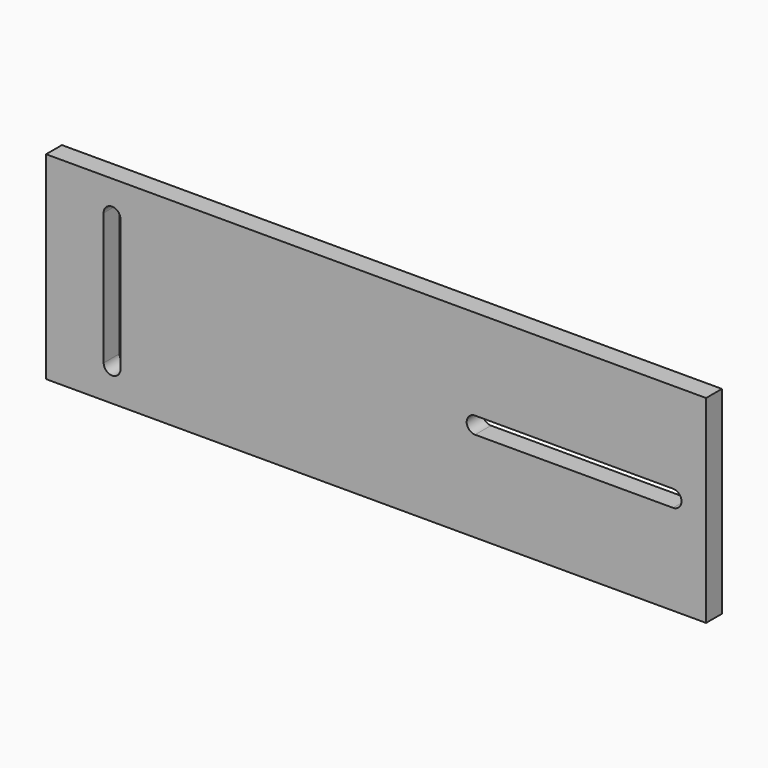
from build123d import *

# Parameters (mm, degrees)
F0_W     = 200
F0_H     = 60
F1_DEPTH = 6
F3_DEPTH = 6


with BuildPart() as f1:
    # F0 (on Front) → F1 (new body)
    with BuildSketch(Plane.XZ):
        with Locations((100, 30)):
            Rectangle(F0_W, F0_H)
    extrude(amount=F1_DEPTH)

    # F2 (on face) → F3 (cut, through all)
    with BuildSketch(Plane.XZ.offset(6)):
        with BuildLine():
            ThreePointArc((22.55, 50), (20, 52.55), (17.45, 50))
            Line((17.45, 50), (17.45, 10))
            ThreePointArc((17.45, 10), (20, 7.45), (22.55, 10))
            Line((22.55, 10), (22.55, 50))
        make_face()
        with BuildLine():
            ThreePointArc((190, 27.45), (192.55, 30), (190, 32.55))
            Line((190, 32.55), (130, 32.55))
            ThreePointArc((130, 32.55), (127.45, 30), (130, 27.45))
            Line((130, 27.45), (190, 27.45))
        make_face()
    extrude(amount=-F3_DEPTH, mode=Mode.SUBTRACT)


solid = f1.part
